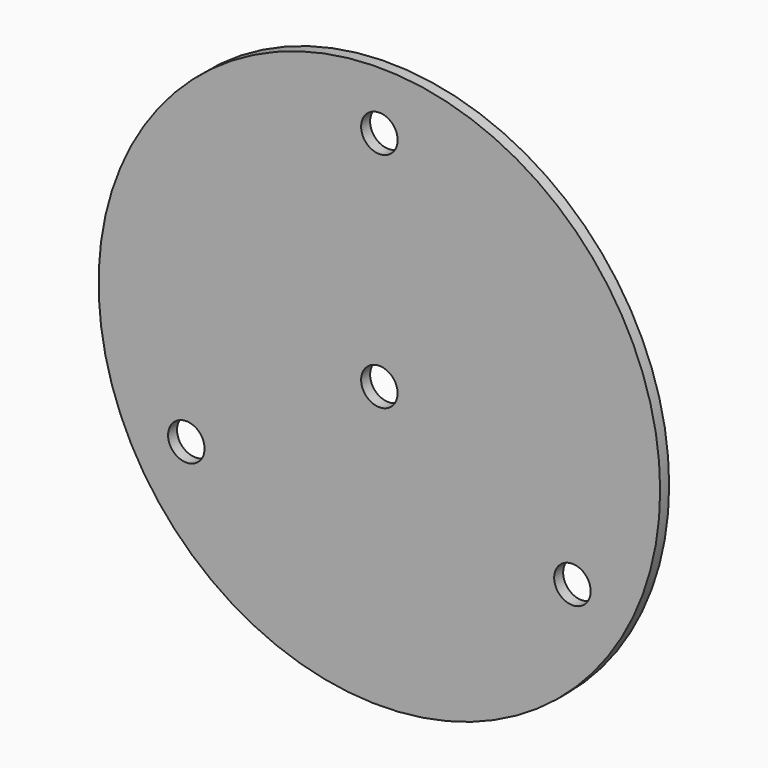
from build123d import *

# Parameters (mm, degrees)
F0_R     = 100
F0_R_2   = 6.5
F1_DEPTH = 4


with BuildPart() as f1:
    # F0 (on Front) → F1 (new body)
    with BuildSketch(Plane.XZ):
        Circle(F0_R)
        with Locations((-68.75, -39.692831)):
            Circle(F0_R_2, mode=Mode.SUBTRACT)
        with Locations((68.75, -39.692831)):
            Circle(F0_R_2, mode=Mode.SUBTRACT)
        Circle(F0_R_2, mode=Mode.SUBTRACT)
        with Locations((0, 79.385662)):
            Circle(F0_R_2, mode=Mode.SUBTRACT)
    extrude(amount=F1_DEPTH)


solid = f1.part
